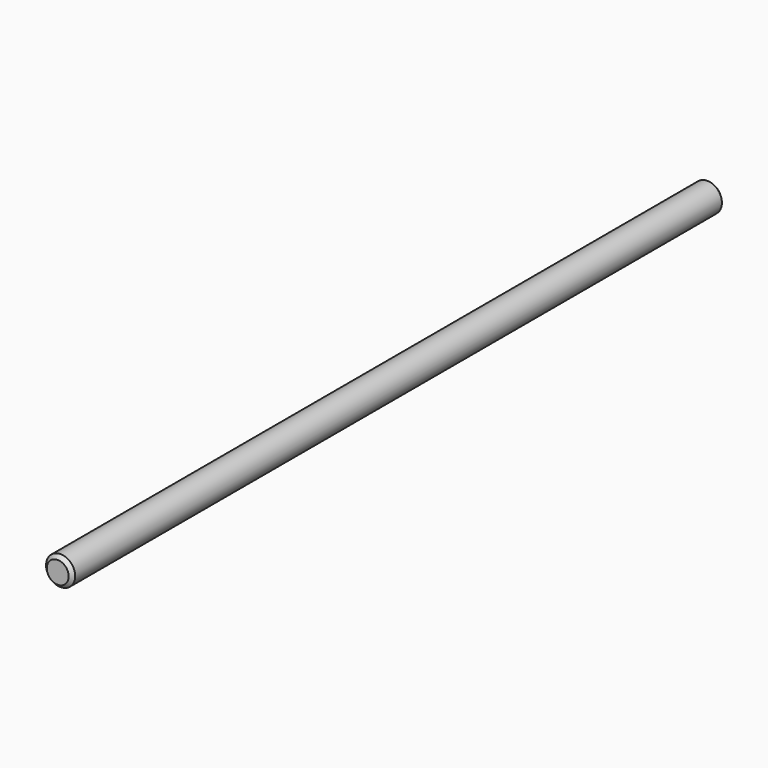
from build123d import *

# Parameters (mm, degrees)
SKETCH_R  = 2.5
PAD_DEPTH = 70


with BuildPart() as part:
    # Sketch → Pad (new body, symmetric)
    with BuildSketch(Plane.XZ):
        Circle(SKETCH_R)
    extrude(amount=PAD_DEPTH, both=True)

    # Sketch001 → Groove (revolve, cut)
    with BuildSketch(Plane.YZ):
        Polygon((-70, 4.5), (70, 4.5), (70, 1.875), (69.375, 2.5), (-69.375, 2.5), (-70, 1.875), align=None)
    revolve(axis=Axis((0, 0, 0), (0, 1, 0)), mode=Mode.SUBTRACT)


solid = part.part
